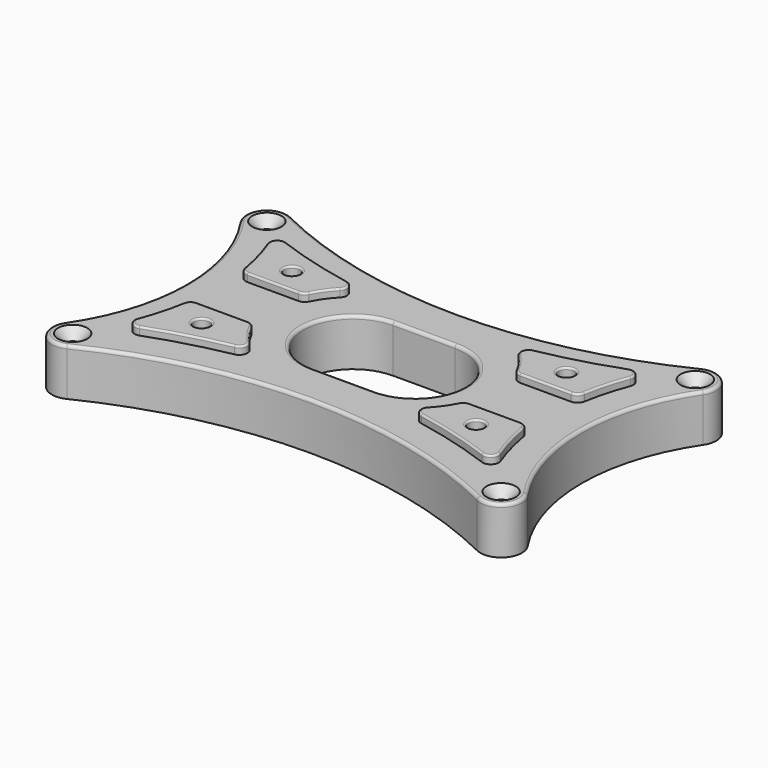
from build123d import *

# Parameters (mm, degrees)
F0_R     = 2.0955
F1_DEPTH = 19.05
F0_R_2   = 3.175
F2_DEPTH = 22.225
F3_DEPTH = 4.445
F4_SIZE  = 3.81
F5_R     = 1.27
F6_R     = 0.762


with BuildPart() as f1:
    # F0 (on Top) → F1 (new body)
    with BuildSketch(Plane.XY):
        with BuildLine():
            ThreePointArc((82.821507, 56.529481), (0, 37.38), (-82.821507, 56.529481))
            ThreePointArc((-82.821507, 56.529481), (-92.824632, 54.497584), (-93.443976, 44.308987))
            ThreePointArc((-93.443976, 44.308987), (-79.88, 0), (-93.443976, -44.308987))
            ThreePointArc((-93.443976, -44.308987), (-92.824632, -54.497584), (-82.821507, -56.529481))
            ThreePointArc((-82.821507, -56.529481), (0, -37.38), (82.821507, -56.529481))
            ThreePointArc((82.821507, -56.529481), (92.824632, -54.497584), (93.443976, -44.308987))
            ThreePointArc((93.443976, -44.308987), (79.88, 0), (93.443976, 44.308987))
            ThreePointArc((93.443976, 44.308987), (92.824632, 54.497584), (82.821507, 56.529481))
        make_face()
        with Locations((-86.5, -49)):
            Circle(F0_R, mode=Mode.SUBTRACT)
        with BuildLine():
            ThreePointArc((-44.749033, -12.754), (-43.038241, -13.24143), (-41.841245, -14.557333))
            ThreePointArc((-41.841245, -14.557333), (-39.227208, -18.933594), (-35.965812, -22.851265))
            ThreePointArc((-35.965812, -22.851265), (-35.19532, -26.091193), (-37.683704, -28.304501))
            ThreePointArc((-37.683704, -28.304501), (-53.596146, -32.011748), (-69.155542, -36.997194))
            ThreePointArc((-69.155542, -36.997194), (-72.582629, -36.227154), (-73.302449, -32.789169))
            ThreePointArc((-73.302449, -32.789169), (-70.503995, -24.237787), (-68.556245, -15.453497))
            ThreePointArc((-68.556245, -15.453497), (-67.449733, -13.519026), (-65.356581, -12.754))
            Line((-65.356581, -12.754), (-44.749033, -12.754))
        make_face(mode=Mode.SUBTRACT)
        with Locations((86.5, -49)):
            Circle(F0_R, mode=Mode.SUBTRACT)
        with BuildLine():
            ThreePointArc((-12.5, -20.12), (-32.62, 0), (-12.5, 20.12))
            Line((-12.5, 20.12), (12.5, 20.12))
            ThreePointArc((12.5, 20.12), (32.62, 0), (12.5, -20.12))
            Line((12.5, -20.12), (-12.5, -20.12))
        make_face(mode=Mode.SUBTRACT)
        with BuildLine():
            ThreePointArc((65.356581, -12.754), (67.449733, -13.519026), (68.556245, -15.453497))
            ThreePointArc((68.556245, -15.453497), (70.503995, -24.237787), (73.302449, -32.789169))
            ThreePointArc((73.302449, -32.789169), (72.582629, -36.227154), (69.155542, -36.997194))
            ThreePointArc((69.155542, -36.997194), (53.596146, -32.011748), (37.683704, -28.304501))
            ThreePointArc((37.683704, -28.304501), (35.19532, -26.091193), (35.965812, -22.851265))
            ThreePointArc((35.965812, -22.851265), (39.227208, -18.933594), (41.841245, -14.557333))
            ThreePointArc((41.841245, -14.557333), (43.038241, -13.24143), (44.749033, -12.754))
            Line((44.749033, -12.754), (65.356581, -12.754))
        make_face(mode=Mode.SUBTRACT)
        with BuildLine():
            ThreePointArc((-73.302449, 32.789169), (-72.582629, 36.227154), (-69.155542, 36.997194))
            ThreePointArc((-69.155542, 36.997194), (-53.596146, 32.011748), (-37.683704, 28.304501))
            ThreePointArc((-37.683704, 28.304501), (-35.19532, 26.091193), (-35.965812, 22.851265))
            ThreePointArc((-35.965812, 22.851265), (-39.227208, 18.933594), (-41.841245, 14.557333))
            ThreePointArc((-41.841245, 14.557333), (-43.038241, 13.24143), (-44.749033, 12.754))
            Line((-44.749033, 12.754), (-65.356581, 12.754))
            ThreePointArc((-65.356581, 12.754), (-67.449733, 13.519026), (-68.556245, 15.453497))
            ThreePointArc((-68.556245, 15.453497), (-70.503995, 24.237787), (-73.302449, 32.789169))
        make_face(mode=Mode.SUBTRACT)
        with Locations((-86.5, 49)):
            Circle(F0_R, mode=Mode.SUBTRACT)
        with BuildLine():
            ThreePointArc((35.965812, 22.851265), (35.19532, 26.091193), (37.683704, 28.304501))
            ThreePointArc((37.683704, 28.304501), (53.596146, 32.011748), (69.155542, 36.997194))
            ThreePointArc((69.155542, 36.997194), (72.582629, 36.227154), (73.302449, 32.789169))
            ThreePointArc((73.302449, 32.789169), (70.503995, 24.237787), (68.556245, 15.453497))
            ThreePointArc((68.556245, 15.453497), (67.449733, 13.519026), (65.356581, 12.754))
            Line((65.356581, 12.754), (44.749033, 12.754))
            ThreePointArc((44.749033, 12.754), (43.038241, 13.24143), (41.841245, 14.557333))
            ThreePointArc((41.841245, 14.557333), (39.227208, 18.933594), (35.965812, 22.851265))
        make_face(mode=Mode.SUBTRACT)
        with Locations((86.5, 49)):
            Circle(F0_R, mode=Mode.SUBTRACT)
    extrude(amount=F1_DEPTH)

    # F0 (on Top) → F2 (join)
    with BuildSketch(Plane.XY):
        with BuildLine():
            ThreePointArc((-37.683704, 28.304501), (-53.596146, 32.011748), (-69.155542, 36.997194))
            ThreePointArc((-69.155542, 36.997194), (-72.582629, 36.227154), (-73.302449, 32.789169))
            ThreePointArc((-73.302449, 32.789169), (-70.503995, 24.237787), (-68.556245, 15.453497))
            ThreePointArc((-68.556245, 15.453497), (-67.449733, 13.519026), (-65.356581, 12.754))
            Line((-65.356581, 12.754), (-44.749033, 12.754))
            ThreePointArc((-44.749033, 12.754), (-43.038241, 13.24143), (-41.841245, 14.557333))
            ThreePointArc((-41.841245, 14.557333), (-39.227208, 18.933594), (-35.965812, 22.851265))
            ThreePointArc((-35.965812, 22.851265), (-35.19532, 26.091193), (-37.683704, 28.304501))
        make_face()
        Polygon((-48.823841, 23.341237), (-51.643599, 17.374892), (-58.220484, 16.833703), (-61.97761, 22.258857), (-59.157852, 28.225201), (-52.580967, 28.766391), align=None, mode=Mode.SUBTRACT)
        with BuildLine():
            ThreePointArc((-35.965812, -22.851265), (-39.227208, -18.933594), (-41.841245, -14.557333))
            ThreePointArc((-41.841245, -14.557333), (-43.038241, -13.24143), (-44.749033, -12.754))
            Line((-44.749033, -12.754), (-65.356581, -12.754))
            ThreePointArc((-65.356581, -12.754), (-67.449733, -13.519026), (-68.556245, -15.453497))
            ThreePointArc((-68.556245, -15.453497), (-70.503995, -24.237787), (-73.302449, -32.789169))
            ThreePointArc((-73.302449, -32.789169), (-72.582629, -36.227154), (-69.155542, -36.997194))
            ThreePointArc((-69.155542, -36.997194), (-53.596146, -32.011748), (-37.683704, -28.304501))
            ThreePointArc((-37.683704, -28.304501), (-35.19532, -26.091193), (-35.965812, -22.851265))
        make_face()
        Polygon((-59.157852, -28.225201), (-61.97761, -22.258857), (-58.220484, -16.833703), (-51.643599, -17.374892), (-48.823841, -23.341237), (-52.580967, -28.766391), align=None, mode=Mode.SUBTRACT)
        with BuildLine():
            ThreePointArc((73.302449, -32.789169), (70.503995, -24.237787), (68.556245, -15.453497))
            ThreePointArc((68.556245, -15.453497), (67.449733, -13.519026), (65.356581, -12.754))
            Line((65.356581, -12.754), (44.749033, -12.754))
            ThreePointArc((44.749033, -12.754), (43.038241, -13.24143), (41.841245, -14.557333))
            ThreePointArc((41.841245, -14.557333), (39.227208, -18.933594), (35.965812, -22.851265))
            ThreePointArc((35.965812, -22.851265), (35.19532, -26.091193), (37.683704, -28.304501))
            ThreePointArc((37.683704, -28.304501), (53.596146, -32.011748), (69.155542, -36.997194))
            ThreePointArc((69.155542, -36.997194), (72.582629, -36.227154), (73.302449, -32.789169))
        make_face()
        Polygon((52.580967, -28.766391), (48.823841, -23.341237), (51.643599, -17.374892), (58.220484, -16.833703), (61.97761, -22.258857), (59.157852, -28.225201), align=None, mode=Mode.SUBTRACT)
        with BuildLine():
            ThreePointArc((69.155542, 36.997194), (53.596146, 32.011748), (37.683704, 28.304501))
            ThreePointArc((37.683704, 28.304501), (35.19532, 26.091193), (35.965812, 22.851265))
            ThreePointArc((35.965812, 22.851265), (39.227208, 18.933594), (41.841245, 14.557333))
            ThreePointArc((41.841245, 14.557333), (43.038241, 13.24143), (44.749033, 12.754))
            Line((44.749033, 12.754), (65.356581, 12.754))
            ThreePointArc((65.356581, 12.754), (67.449733, 13.519026), (68.556245, 15.453497))
            ThreePointArc((68.556245, 15.453497), (70.503995, 24.237787), (73.302449, 32.789169))
            ThreePointArc((73.302449, 32.789169), (72.582629, 36.227154), (69.155542, 36.997194))
        make_face()
        Polygon((61.97761, 22.258857), (58.220484, 16.833703), (51.643599, 17.374892), (48.823841, 23.341237), (52.580967, 28.766391), (59.157852, 28.225201), align=None, mode=Mode.SUBTRACT)
        Polygon((51.643599, 17.374892), (58.220484, 16.833703), (61.97761, 22.258857), (59.157852, 28.225201), (52.580967, 28.766391), (48.823841, 23.341237), align=None)
        with Locations((55.400725, 22.800047)):
            Circle(F0_R_2, mode=Mode.SUBTRACT)
        Polygon((51.643599, -17.374892), (48.823841, -23.341237), (52.580967, -28.766391), (59.157852, -28.225201), (61.97761, -22.258857), (58.220484, -16.833703), align=None)
        with Locations((55.400725, -22.800047)):
            Circle(F0_R_2, mode=Mode.SUBTRACT)
        Polygon((-58.220484, -16.833703), (-61.97761, -22.258857), (-59.157852, -28.225201), (-52.580967, -28.766391), (-48.823841, -23.341237), (-51.643599, -17.374892), align=None)
        with Locations((-55.400725, -22.800047)):
            Circle(F0_R_2, mode=Mode.SUBTRACT)
        Polygon((-58.220484, 16.833703), (-51.643599, 17.374892), (-48.823841, 23.341237), (-52.580967, 28.766391), (-59.157852, 28.225201), (-61.97761, 22.258857), align=None)
        with Locations((-55.400725, 22.800047)):
            Circle(F0_R_2, mode=Mode.SUBTRACT)
    extrude(amount=F2_DEPTH)

    # F0 (on Top) → F3 (cut)
    with BuildSketch(Plane.XY):
        Polygon((-58.220484, 16.833703), (-51.643599, 17.374892), (-48.823841, 23.341237), (-52.580967, 28.766391), (-59.157852, 28.225201), (-61.97761, 22.258857), align=None)
        with Locations((-55.400725, 22.800047)):
            Circle(F0_R_2, mode=Mode.SUBTRACT)
        Polygon((51.643599, 17.374892), (58.220484, 16.833703), (61.97761, 22.258857), (59.157852, 28.225201), (52.580967, 28.766391), (48.823841, 23.341237), align=None)
        with Locations((55.400725, 22.800047)):
            Circle(F0_R_2, mode=Mode.SUBTRACT)
        Polygon((51.643599, -17.374892), (48.823841, -23.341237), (52.580967, -28.766391), (59.157852, -28.225201), (61.97761, -22.258857), (58.220484, -16.833703), align=None)
        with Locations((55.400725, -22.800047)):
            Circle(F0_R_2, mode=Mode.SUBTRACT)
        Polygon((-58.220484, -16.833703), (-61.97761, -22.258857), (-59.157852, -28.225201), (-52.580967, -28.766391), (-48.823841, -23.341237), (-51.643599, -17.374892), align=None)
        with Locations((-55.400725, -22.800047)):
            Circle(F0_R_2, mode=Mode.SUBTRACT)
    extrude(amount=F3_DEPTH, mode=Mode.SUBTRACT)

    # F4
    f4_edges = [f1.edges().sort_by_distance(p)[0] for p in [
        (84.4045, 49, 19.05),
        (84.4045, -49, 19.05),
        (-88.5955, -49, 19.05),
        (-88.5955, 49, 19.05),
    ]]
    chamfer(f4_edges, length=F4_SIZE)

    # F5
    f5_edges = [f1.edges().sort_by_distance(p)[0] for p in [
        (-79.88, 0, 19.05),
        (-92.824632, -54.497584, 19.05),
        (0, -37.38, 19.05),
        (92.824632, -54.497584, 19.05),
        (79.88, 0, 19.05),
        (92.824632, 54.497584, 19.05),
        (0, 37.38, 19.05),
        (-92.824632, 54.497584, 19.05),
        (-32.62, 0, 19.05),
        (0, 20.12, 19.05),
    ]]
    fillet(f5_edges, radius=F5_R)

    # F6
    f6_edges = [f1.edges().sort_by_distance(p)[0] for p in [
        (-55.052807, 12.754, 22.225),
        (55.052807, 12.754, 22.225),
        (53.596146, -32.011748, 22.225),
        (-53.596146, -32.011748, 22.225),
        (52.225725, -22.800047, 22.225),
        (52.225725, 22.800047, 22.225),
        (-58.575725, -22.800047, 22.225),
        (-58.575725, 22.800047, 22.225),
    ]]
    fillet(f6_edges, radius=F6_R)


solid = f1.part
